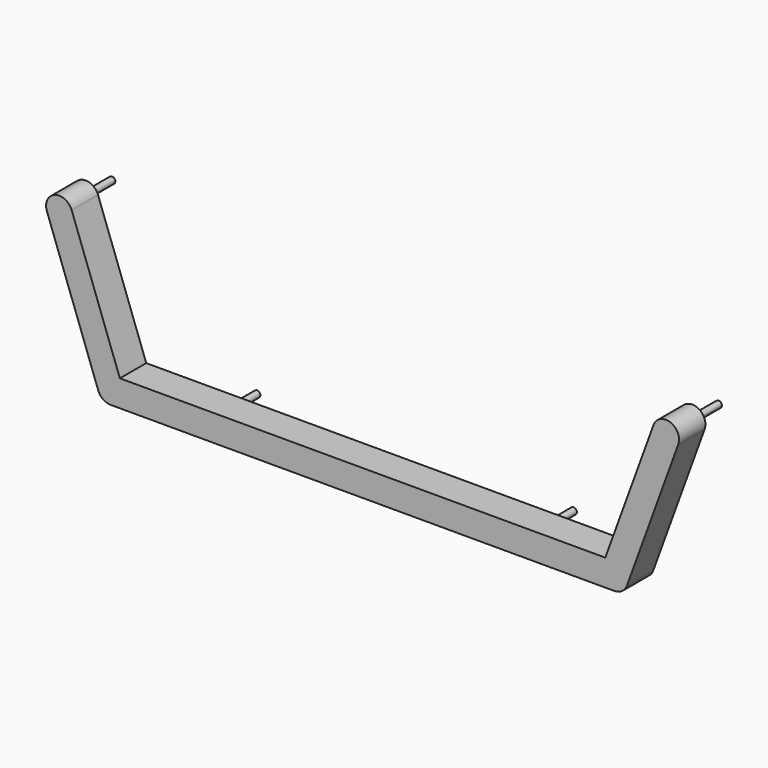
from build123d import *

# Parameters (mm, degrees)
F1_DEPTH = 50
F2_DEPTH = 25


with BuildPart() as f1:
    # F0 (on Front) → F1 (new body)
    with BuildSketch(Plane.XZ):
        with BuildLine():
            ThreePointArc((191.0551849335, -10), (183.9841171217, -7.0710678119), (181.0551849335, 0))
            ThreePointArc((181.0551849335, 0), (181.2071074034, 1.7364817767), (181.6582587257, 3.4202014333))
            Line((181.6582587257, 3.4202014333), (184.0531095514, 10))
            Line((184.0531095514, 10), (0, 10))
            ThreePointArc((0, 10), (-10, 0), (0, -10))
            Line((0, -10), (191.0551849335, -10))
        make_face()
        with BuildLine():
            ThreePointArc((122.5, 0), (120, -2.5), (117.5, 0))
            ThreePointArc((117.5, 0), (120, 2.5), (122.5, 0))
        make_face(mode=Mode.SUBTRACT)
        with BuildLine():
            Line((191.0551849335, 0), (181.0551849335, 0))
            ThreePointArc((181.0551849335, 0), (183.9841171217, -7.0710678119), (191.0551849335, -10))
            ThreePointArc((191.0551849335, -10), (196.790949297, -8.1915204429), (200.4521111414, -3.4202014333))
            ThreePointArc((200.4521111414, -3.4202014333), (200.1182628039, 4.2261826174), (194.4753863668, 9.3969262079))
            Line((194.4753863668, 9.3969262079), (191.0551849335, 0))
        make_face()
        with BuildLine():
            ThreePointArc((191.0551849335, 10), (192.7916667102, 9.8480775301), (194.4753863668, 9.3969262079))
            ThreePointArc((194.4753863668, 9.3969262079), (200.1182628039, 4.2261826174), (200.4521111414, -3.4202014333))
            Line((200.4521111414, -3.4202014333), (239.3969262079, 103.5797985667))
            ThreePointArc((239.3969262079, 103.5797985667), (233.4202014333, 116.3969262079), (220.6030737921, 110.4202014333))
            Line((220.6030737921, 110.4202014333), (184.0531095514, 10))
            Line((184.0531095514, 10), (191.0551849335, 10))
        make_face()
        with BuildLine():
            ThreePointArc((232.5, 107), (231.4339410909, 104.9521198893), (229.1449496417, 104.650768448))
            ThreePointArc((229.1449496417, 104.650768448), (228.5660589091, 109.0478801107), (232.5, 107))
        make_face(mode=Mode.SUBTRACT)
        with BuildLine():
            ThreePointArc((181.6582587257, 3.4202014333), (181.2071074034, 1.7364817767), (181.0551849335, 0))
            Line((181.0551849335, 0), (191.0551849335, 0))
            Line((191.0551849335, 0), (194.4753863668, 9.3969262079))
            ThreePointArc((194.4753863668, 9.3969262079), (192.7916667102, 9.8480775301), (191.0551849335, 10))
            Line((191.0551849335, 10), (184.0531095514, 10))
            Line((184.0531095514, 10), (181.6582587257, 3.4202014333))
        make_face()
        with BuildLine():
            ThreePointArc((232.5, 107), (228.5660589091, 109.0478801107), (229.1449496417, 104.650768448))
            ThreePointArc((229.1449496417, 104.650768448), (231.4339410909, 104.9521198893), (232.5, 107))
        make_face()
        with BuildLine():
            Line((122.5, 0), (117.5, 0))
            ThreePointArc((117.5, 0), (120, -2.5), (122.5, 0))
        make_face()
        with BuildLine():
            ThreePointArc((122.5, 0), (120, 2.5), (117.5, 0))
            Line((117.5, 0), (122.5, 0))
        make_face()
    extrude(amount=F1_DEPTH)

    # F0 (on Front) → F2 (cut)
    with BuildSketch(Plane.XZ):
        with BuildLine():
            ThreePointArc((191.0551849335, -10), (183.9841171217, -7.0710678119), (181.0551849335, 0))
            ThreePointArc((181.0551849335, 0), (181.2071074034, 1.7364817767), (181.6582587257, 3.4202014333))
            Line((181.6582587257, 3.4202014333), (184.0531095514, 10))
            Line((184.0531095514, 10), (0, 10))
            ThreePointArc((0, 10), (-10, 0), (0, -10))
            Line((0, -10), (191.0551849335, -10))
        make_face()
        with BuildLine():
            ThreePointArc((122.5, 0), (120, -2.5), (117.5, 0))
            ThreePointArc((117.5, 0), (120, 2.5), (122.5, 0))
        make_face(mode=Mode.SUBTRACT)
        with BuildLine():
            ThreePointArc((181.6582587257, 3.4202014333), (181.2071074034, 1.7364817767), (181.0551849335, 0))
            Line((181.0551849335, 0), (191.0551849335, 0))
            Line((191.0551849335, 0), (194.4753863668, 9.3969262079))
            ThreePointArc((194.4753863668, 9.3969262079), (192.7916667102, 9.8480775301), (191.0551849335, 10))
            Line((191.0551849335, 10), (184.0531095514, 10))
            Line((184.0531095514, 10), (181.6582587257, 3.4202014333))
        make_face()
        with BuildLine():
            Line((191.0551849335, 0), (181.0551849335, 0))
            ThreePointArc((181.0551849335, 0), (183.9841171217, -7.0710678119), (191.0551849335, -10))
            ThreePointArc((191.0551849335, -10), (196.790949297, -8.1915204429), (200.4521111414, -3.4202014333))
            ThreePointArc((200.4521111414, -3.4202014333), (200.1182628039, 4.2261826174), (194.4753863668, 9.3969262079))
            Line((194.4753863668, 9.3969262079), (191.0551849335, 0))
        make_face()
        with BuildLine():
            ThreePointArc((191.0551849335, 10), (192.7916667102, 9.8480775301), (194.4753863668, 9.3969262079))
            ThreePointArc((194.4753863668, 9.3969262079), (200.1182628039, 4.2261826174), (200.4521111414, -3.4202014333))
            Line((200.4521111414, -3.4202014333), (239.3969262079, 103.5797985667))
            ThreePointArc((239.3969262079, 103.5797985667), (233.4202014333, 116.3969262079), (220.6030737921, 110.4202014333))
            Line((220.6030737921, 110.4202014333), (184.0531095514, 10))
            Line((184.0531095514, 10), (191.0551849335, 10))
        make_face()
        with BuildLine():
            ThreePointArc((232.5, 107), (231.4339410909, 104.9521198893), (229.1449496417, 104.650768448))
            ThreePointArc((229.1449496417, 104.650768448), (228.5660589091, 109.0478801107), (232.5, 107))
        make_face(mode=Mode.SUBTRACT)
    extrude(amount=F2_DEPTH, mode=Mode.SUBTRACT)

    # F3: F1 across plane


with BuildPart() as f1_1:
    add(f1.part)
    add(f1.part.mirror(Plane.YZ))


with BuildPart() as f4_1:
    # F4: copy of F1
    add(f1_1.part)


solid = f1_1.part
